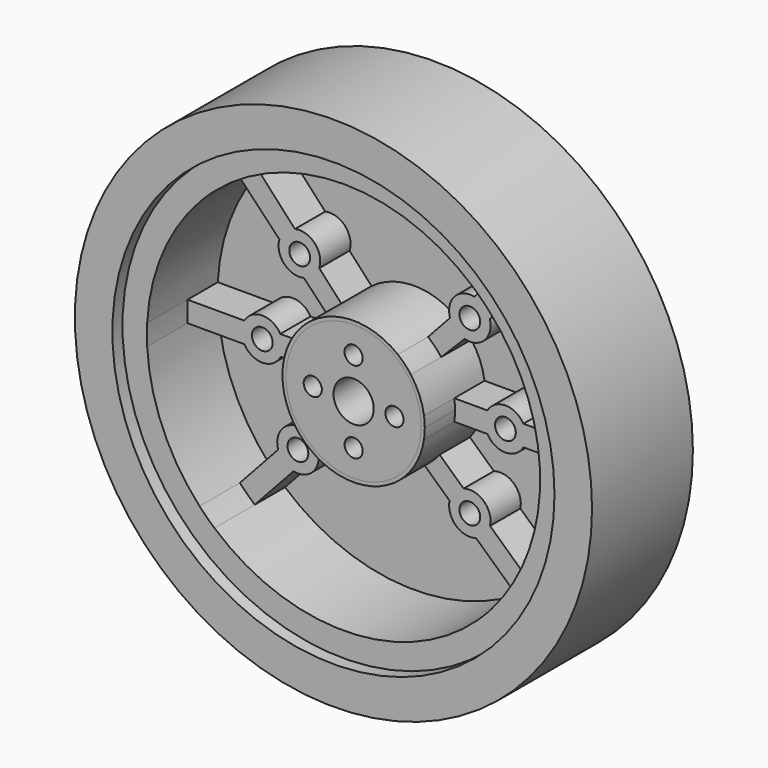
from build123d import *

# Parameters (mm, degrees)
F0_R     = 52.1011686395
F0_R_2   = 44.5345277914
F4_DEPTH = 25.4
F1_R     = 2.0896818938
F5_DEPTH = 12.7
F2_R     = 13.6276894577
F2_R_2   = 1.8284716571
F2_R_3   = 4.0487586693
F6_DEPTH = 20.32
F0_R_3   = 13.6276894577
F7_DEPTH = 5.08
F8_R     = 44.5345277914
F9_DEPTH = 22.86


with BuildPart() as f4:
    # F0 (on Front) → F4 (new body)
    with BuildSketch(Plane.XZ):
        Circle(F0_R)
        Circle(F0_R_2, mode=Mode.SUBTRACT)
    extrude(amount=F4_DEPTH)


with BuildPart() as f5:
    # F1 (on Front) → F5 (new body)
    with BuildSketch(Plane.XZ):
        with BuildLine():
            Line((13.3288291787, 16.062998569), (8.8993211064, 11.2382837641))
            ThreePointArc((8.8993211064, 11.2382837641), (10.3090185549, 9.9609775901), (11.53717635, 8.5082606909))
            Line((11.53717635, 8.5082606909), (16.2529037595, 13.2740501967))
            ThreePointArc((16.2529037595, 13.2740501967), (20.3148706237, 14.3960511884), (21.3280451988, 18.4865203928))
            Line((21.3280451988, 18.4865203928), (29.2354553735, 26.7317885042))
            ThreePointArc((29.2354553735, 26.7317885042), (27.6684527428, 28.3506100525), (26.0119533561, 29.8777283295))
            Line((26.0119533561, 29.8777283295), (18.2244263885, 21.3953876179))
            ThreePointArc((18.2244263885, 21.3953876179), (14.2404436687, 20.1395438007), (13.3288291787, 16.062998569))
        make_face()
        with Locations((17.31595591, 17.31595591)):
            Circle(F1_R, mode=Mode.SUBTRACT)
    extrude(amount=F5_DEPTH)


with BuildPart() as f5b:
    # F1 (on Front) → F5, piece 2 (new body)
    with BuildSketch(Plane.XZ):
        with BuildLine():
            Line((28.108992902, -2.0877789525), (39.5593420898, -2.0877789525))
            ThreePointArc((39.5593420898, -2.0877789525), (39.6143959632, 0), (39.5593420898, 2.0877789525))
            Line((39.5593420898, 2.0877789525), (28.108992902, 2.0877789525))
            ThreePointArc((28.108992902, 2.0877789525), (24.4884596933, 4.1645270446), (20.8679264847, 2.0877789525))
            Line((20.8679264847, 2.0877789525), (14.182317059, 2.0877789525))
            ThreePointArc((14.182317059, 2.0877789525), (14.335164391, 0), (14.182317059, -2.0877789525))
            Line((14.182317059, -2.0877789525), (20.8679264847, -2.0877789525))
            ThreePointArc((20.8679264847, -2.0877789525), (24.4884596933, -4.2004976818), (28.108992902, -2.0877789525))
        make_face()
        with Locations((24.4884596933, 0)):
            Circle(F1_R, mode=Mode.SUBTRACT)
    extrude(amount=F5_DEPTH)


with BuildPart() as f5c:
    # F1 (on Front) → F5, piece 3 (new body)
    with BuildSketch(Plane.XZ):
        with BuildLine():
            ThreePointArc((13.2384417135, -16.3989173899), (14.4998659593, -20.3833012349), (18.5772866187, -21.3004416375))
            Line((18.5772866187, -21.3004416375), (26.9755016155, -29.0107338777))
            ThreePointArc((26.9755016155, -29.0107338777), (28.4661309269, -27.5495872489), (29.8777283295, -26.0119533561))
            Line((29.8777283295, -26.0119533561), (21.3953876179, -18.2244263885))
            ThreePointArc((21.3953876179, -18.2244263885), (20.1332715052, -14.247275587), (16.062998569, -13.3288291787))
            Line((16.062998569, -13.3288291787), (11.2382837641, -8.8993211064))
            ThreePointArc((11.2382837641, -8.8993211064), (9.8196010677, -10.4437719712), (8.1907619645, -11.7647080948))
            Line((8.1907619645, -11.7647080948), (13.2384417135, -16.3989173899))
        make_face()
        with Locations((17.31595591, -17.31595591)):
            Circle(F1_R, mode=Mode.SUBTRACT)
    extrude(amount=F5_DEPTH)


with BuildPart() as f5d:
    # F1 (on Front) → F5, piece 4 (new body)
    with BuildSketch(Plane.XZ):
        with BuildLine():
            ThreePointArc((-16.2024145537, -13.2876675244), (-20.3161316866, -14.4244476382), (-21.3004416375, -18.5772866187))
            Line((-21.3004416375, -18.5772866187), (-29.0107338777, -26.9755016155))
            ThreePointArc((-29.0107338777, -26.9755016155), (-27.5495872489, -28.4661309269), (-26.0119533561, -29.8777283295))
            Line((-26.0119533561, -29.8777283295), (-18.2244263885, -21.3953876179))
            ThreePointArc((-18.2244263885, -21.3953876179), (-14.233589914, -20.145836144), (-13.3288291787, -16.062998569))
            Line((-13.3288291787, -16.062998569), (-8.8993211064, -11.2382837641))
            ThreePointArc((-8.8993211064, -11.2382837641), (-10.2629314564, -10.0084552273), (-11.4581417511, -8.6144022269))
            Line((-11.4581417511, -8.6144022269), (-16.2024145537, -13.2876675244))
        make_face()
        with Locations((-17.31595591, -17.31595591)):
            Circle(F1_R, mode=Mode.SUBTRACT)
    extrude(amount=F5_DEPTH)


with BuildPart() as f5e:
    # F1 (on Front) → F5, piece 5 (new body)
    with BuildSketch(Plane.XZ):
        with BuildLine():
            Line((-28.108992902, 2.0877789525), (-39.5593420898, 2.0877789525))
            ThreePointArc((-39.5593420898, 2.0877789525), (-39.6143959632, 0), (-39.5593420898, -2.0877789525))
            Line((-39.5593420898, -2.0877789525), (-28.108992902, -2.0877789525))
            ThreePointArc((-28.108992902, -2.0877789525), (-24.4003385854, -4.1802994499), (-20.7831607119, -1.9333497168))
            Line((-20.7831607119, -1.9333497168), (-14.2394369607, -1.6538963562))
            ThreePointArc((-14.2394369607, -1.6538963562), (-14.3334943024, 0.2188131569), (-14.182317059, 2.0877789525))
            Line((-14.182317059, 2.0877789525), (-20.8679264847, 2.0877789525))
            ThreePointArc((-20.8679264847, 2.0877789525), (-24.4884596933, 4.1874574277), (-28.108992902, 2.0877789525))
        make_face()
        with Locations((-24.4884596933, 0)):
            Circle(F1_R, mode=Mode.SUBTRACT)
    extrude(amount=F5_DEPTH)


with BuildPart() as f5f:
    # F1 (on Front) → F5, piece 6 (new body)
    with BuildSketch(Plane.XZ):
        with BuildLine():
            Line((-16.1029422193, 13.5664097809), (-11.4319689847, 8.6491053439))
            ThreePointArc((-11.4319689847, 8.6491053439), (-10.1071344662, 10.1657646539), (-8.5828376218, 11.4818045826))
            Line((-8.5828376218, 11.4818045826), (-13.0123456942, 16.3065193875))
            ThreePointArc((-13.0123456942, 16.3065193875), (-13.9197829349, 20.4010051033), (-17.921225508, 21.6566774157))
            Line((-17.921225508, 21.6566774157), (-25.7087524756, 30.1390181273))
            ThreePointArc((-25.7087524756, 30.1390181273), (-27.3581044515, 28.65020922), (-28.9213896623, 27.0712686724))
            Line((-28.9213896623, 27.0712686724), (-21.057174702, 18.7923218287))
            ThreePointArc((-21.057174702, 18.7923218287), (-20.0761411902, 14.7610599498), (-16.1029422193, 13.5664097809))
        make_face()
        with Locations((-16.9658552567, 17.5222639227)):
            Circle(F1_R, mode=Mode.SUBTRACT)
    extrude(amount=F5_DEPTH)


with BuildPart() as f6:
    # F2 (on face) → F6 (new body)
    with BuildSketch(Plane.XZ):
        Circle(F2_R)
        with Locations((0, -8.228122457)):
            Circle(F2_R_2, mode=Mode.SUBTRACT)
        with Locations((-8.228122457, 0)):
            Circle(F2_R_2, mode=Mode.SUBTRACT)
        Circle(F2_R_3, mode=Mode.SUBTRACT)
        with Locations((8.228122457, 0)):
            Circle(F2_R_2, mode=Mode.SUBTRACT)
        with Locations((0, 8.228122457)):
            Circle(F2_R_2, mode=Mode.SUBTRACT)
    extrude(amount=F6_DEPTH)


with BuildPart() as f6b:
    # F0 (on Front) → F6, piece 2 (new body)
    with BuildSketch(Plane.XZ):
        with BuildLine():
            ThreePointArc((14.182317059, -2.0877789525), (14.296901493, -1.046683245), (14.335164391, 0))
            ThreePointArc((14.335164391, 0), (14.296901493, 1.046683245), (14.182317059, 2.0877789525))
            ThreePointArc((14.182317059, 2.0877789525), (13.2543853778, 5.4606049458), (11.53717635, 8.5082606909))
            ThreePointArc((11.53717635, 8.5082606909), (10.3090185549, 9.9609775901), (8.8993211064, 11.2382837641))
            ThreePointArc((8.8993211064, 11.2382837641), (0.1996648348, 14.3337738251), (-8.5828376218, 11.4818045826))
            ThreePointArc((-8.5828376218, 11.4818045826), (-10.1071344662, 10.1657646539), (-11.4319689847, 8.6491053439))
            ThreePointArc((-11.4319689847, 8.6491053439), (-13.2206529107, 5.5417754133), (-14.182317059, 2.0877789525))
            ThreePointArc((-14.182317059, 2.0877789525), (-14.3334943024, 0.2188131569), (-14.2394369607, -1.6538963562))
            ThreePointArc((-14.2394369607, -1.6538963562), (-13.3117823152, -5.3191531007), (-11.4581417511, -8.6144022269))
            ThreePointArc((-11.4581417511, -8.6144022269), (-10.2629314564, -10.0084552273), (-8.8993211064, -11.2382837641))
            ThreePointArc((-8.8993211064, -11.2382837641), (-0.4413554785, -14.3283684855), (8.1907619645, -11.7647080948))
            ThreePointArc((8.1907619645, -11.7647080948), (9.8196010677, -10.4437719712), (11.2382837641, -8.8993211064))
            ThreePointArc((11.2382837641, -8.8993211064), (13.1586858455, -5.6873477945), (14.182317059, -2.0877789525))
        make_face()
        Circle(F0_R_3, mode=Mode.SUBTRACT)
    extrude(amount=F6_DEPTH)


with BuildPart() as f7:
    # F3 (on Front) → F7 (new body)
    with BuildSketch(Plane.XZ):
        with BuildLine():
            ThreePointArc((-16.1029422193, 13.5664097809), (-20.0887457887, 14.7491106267), (-21.057174702, 18.7923218287))
            Line((-21.057174702, 18.7923218287), (-28.9213896623, 27.0712686724))
            ThreePointArc((-28.9213896623, 27.0712686724), (-36.4478578928, 15.5194723673), (-39.5593420898, 2.0877789525))
            Line((-39.5593420898, 2.0877789525), (-28.108992902, 2.0877789525))
            ThreePointArc((-28.108992902, 2.0877789525), (-24.4884596933, 4.1874574277), (-20.8679264847, 2.0877789525))
            Line((-20.8679264847, 2.0877789525), (-14.182317059, 2.0877789525))
            ThreePointArc((-14.182317059, 2.0877789525), (-13.2206529107, 5.5417754133), (-11.4319689847, 8.6491053439))
            Line((-11.4319689847, 8.6491053439), (-16.1029422193, 13.5664097809))
        make_face()
    extrude(amount=F7_DEPTH)


with BuildPart() as f7b:
    # F3 (on Front) → F7, piece 2 (new body)
    with BuildSketch(Plane.XZ):
        with BuildLine():
            ThreePointArc((13.3288291787, 16.062998569), (14.2404436687, 20.1395438007), (18.2244263885, 21.3953876179))
            Line((18.2244263885, 21.3953876179), (26.0119533561, 29.8777283295))
            ThreePointArc((26.0119533561, 29.8777283295), (0.2001269175, 39.6138904521), (-25.7087524756, 30.1390181273))
            Line((-25.7087524756, 30.1390181273), (-17.921225508, 21.6566774157))
            ThreePointArc((-17.921225508, 21.6566774157), (-13.9159013278, 20.4045665574), (-13.0123456942, 16.3065193875))
            Line((-13.0123456942, 16.3065193875), (-8.5828376218, 11.4818045826))
            ThreePointArc((-8.5828376218, 11.4818045826), (0.1996648348, 14.3337738251), (8.8993211064, 11.2382837641))
            Line((8.8993211064, 11.2382837641), (13.3288291787, 16.062998569))
        make_face()
    extrude(amount=F7_DEPTH)


with BuildPart() as f7c:
    # F3 (on Front) → F7, piece 3 (new body)
    with BuildSketch(Plane.XZ):
        with BuildLine():
            Line((28.108992902, 2.0877789525), (39.5593420898, 2.0877789525))
            ThreePointArc((39.5593420898, 2.0877789525), (36.537827538, 15.3064537477), (29.2354553735, 26.7317885042))
            Line((29.2354553735, 26.7317885042), (21.3280451988, 18.4865203928))
            ThreePointArc((21.3280451988, 18.4865203928), (20.3148706237, 14.3960511884), (16.2529037595, 13.2740501967))
            Line((16.2529037595, 13.2740501967), (11.53717635, 8.5082606909))
            ThreePointArc((11.53717635, 8.5082606909), (13.2543853778, 5.4606049458), (14.182317059, 2.0877789525))
            Line((14.182317059, 2.0877789525), (20.8679264847, 2.0877789525))
            ThreePointArc((20.8679264847, 2.0877789525), (24.4884596933, 4.1645270446), (28.108992902, 2.0877789525))
        make_face()
    extrude(amount=F7_DEPTH)


with BuildPart() as f7d:
    # F3 (on Front) → F7, piece 4 (new body)
    with BuildSketch(Plane.XZ):
        with BuildLine():
            ThreePointArc((16.062998569, -13.3288291787), (20.1332715052, -14.247275587), (21.3953876179, -18.2244263885))
            Line((21.3953876179, -18.2244263885), (29.8777283295, -26.0119533561))
            ThreePointArc((29.8777283295, -26.0119533561), (36.7214953035, -14.8604222754), (39.5593420898, -2.0877789525))
            Line((39.5593420898, -2.0877789525), (28.108992902, -2.0877789525))
            ThreePointArc((28.108992902, -2.0877789525), (24.4884596933, -4.2004976818), (20.8679264847, -2.0877789525))
            Line((20.8679264847, -2.0877789525), (14.182317059, -2.0877789525))
            ThreePointArc((14.182317059, -2.0877789525), (13.1586858455, -5.6873477945), (11.2382837641, -8.8993211064))
            Line((11.2382837641, -8.8993211064), (16.062998569, -13.3288291787))
        make_face()
    extrude(amount=F7_DEPTH)


with BuildPart() as f7e:
    # F3 (on Front) → F7, piece 5 (new body)
    with BuildSketch(Plane.XZ):
        with BuildLine():
            ThreePointArc((-13.3288291787, -16.062998569), (-14.233589914, -20.145836144), (-18.2244263885, -21.3953876179))
            Line((-18.2244263885, -21.3953876179), (-26.0119533561, -29.8777283295))
            ThreePointArc((-26.0119533561, -29.8777283295), (0.64809425, -39.6090941751), (26.9755016155, -29.0107338777))
            Line((26.9755016155, -29.0107338777), (18.5772866187, -21.3004416375))
            ThreePointArc((18.5772866187, -21.3004416375), (14.4998659593, -20.3833012349), (13.2384417135, -16.3989173899))
            Line((13.2384417135, -16.3989173899), (8.1907619645, -11.7647080948))
            ThreePointArc((8.1907619645, -11.7647080948), (-0.4413554785, -14.3283684855), (-8.8993211064, -11.2382837641))
            Line((-8.8993211064, -11.2382837641), (-13.3288291787, -16.062998569))
        make_face()
    extrude(amount=F7_DEPTH)


with BuildPart() as f7f:
    # F3 (on Front) → F7, piece 6 (new body)
    with BuildSketch(Plane.XZ):
        with BuildLine():
            ThreePointArc((-20.7831607119, -1.9333497168), (-24.4003385854, -4.1802994499), (-28.108992902, -2.0877789525))
            Line((-28.108992902, -2.0877789525), (-39.5593420898, -2.0877789525))
            ThreePointArc((-39.5593420898, -2.0877789525), (-36.4734631532, -15.4591996282), (-29.0107338777, -26.9755016155))
            Line((-29.0107338777, -26.9755016155), (-21.3004416375, -18.5772866187))
            ThreePointArc((-21.3004416375, -18.5772866187), (-20.3161316866, -14.4244476382), (-16.2024145537, -13.2876675244))
            Line((-16.2024145537, -13.2876675244), (-11.4581417511, -8.6144022269))
            ThreePointArc((-11.4581417511, -8.6144022269), (-13.3117823152, -5.3191531007), (-14.2394369607, -1.6538963562))
            Line((-14.2394369607, -1.6538963562), (-20.7831607119, -1.9333497168))
        make_face()
    extrude(amount=F7_DEPTH)


with BuildPart() as f9:
    # F8 (on face) → F9 (new body)
    with BuildSketch(Plane.XZ):
        Circle(F8_R)
        with BuildLine():
            ThreePointArc((26.0119533561, 29.8777283295), (27.6684527428, 28.3506100525), (29.2354553735, 26.7317885042))
            ThreePointArc((29.2354553735, 26.7317885042), (36.537827538, 15.3064537477), (39.5593420898, 2.0877789525))
            ThreePointArc((39.5593420898, 2.0877789525), (39.6006301031, 1.0442523502), (39.6143959632, 0))
            ThreePointArc((39.6143959632, 0), (39.6006301031, -1.0442523502), (39.5593420898, -2.0877789525))
            ThreePointArc((39.5593420898, -2.0877789525), (36.7214953035, -14.8604222754), (29.8777283295, -26.0119533561))
            ThreePointArc((29.8777283295, -26.0119533561), (28.4661309269, -27.5495872489), (26.9755016155, -29.0107338777))
            ThreePointArc((26.9755016155, -29.0107338777), (0.64809425, -39.6090941751), (-26.0119533561, -29.8777283295))
            ThreePointArc((-26.0119533561, -29.8777283295), (-27.5495872489, -28.4661309269), (-29.0107338777, -26.9755016155))
            ThreePointArc((-29.0107338777, -26.9755016155), (-36.4734631532, -15.4591996282), (-39.5593420898, -2.0877789525))
            ThreePointArc((-39.5593420898, -2.0877789525), (-39.6143959632, 0), (-39.5593420898, 2.0877789525))
            ThreePointArc((-39.5593420898, 2.0877789525), (-36.4478578928, 15.5194723673), (-28.9213896623, 27.0712686724))
            ThreePointArc((-28.9213896623, 27.0712686724), (-27.3581044515, 28.65020922), (-25.7087524756, 30.1390181273))
            ThreePointArc((-25.7087524756, 30.1390181273), (0.2001269175, 39.6138904521), (26.0119533561, 29.8777283295))
        make_face(mode=Mode.SUBTRACT)
    extrude(amount=F9_DEPTH)


solid = Compound([f4.part, f5.part, f5b.part, f5c.part, f5d.part, f5e.part, f5f.part, f6.part, f6b.part, f7.part, f7b.part, f7c.part, f7d.part, f7e.part, f7f.part, f9.part])
